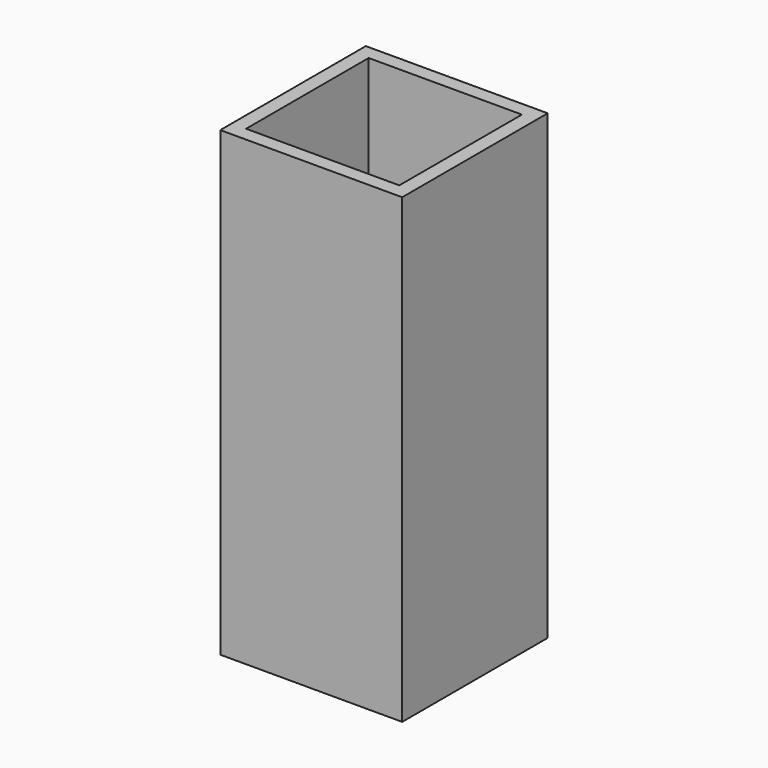
from build123d import *

# Parameters (mm, degrees)
F0_W     = 25.4
F0_H     = 25.4
F0_W_2   = 21.4
F0_H_2   = 21.4
F1_DEPTH = 62.5
F2_DEPTH = 2


with BuildPart() as f1:
    # F0 (on Top) → F1 (new body)
    with BuildSketch(Plane.XY):
        Rectangle(F0_W, F0_H)
        Rectangle(F0_W_2, F0_H_2, mode=Mode.SUBTRACT)
    extrude(amount=F1_DEPTH)

    # F0 (on Top) → F2 (join)
    with BuildSketch(Plane.XY):
        Rectangle(F0_W, F0_H)
        Rectangle(F0_W_2, F0_H_2, mode=Mode.SUBTRACT)
        Rectangle(F0_W_2, F0_H_2)
    extrude(amount=-F2_DEPTH)


solid = f1.part
